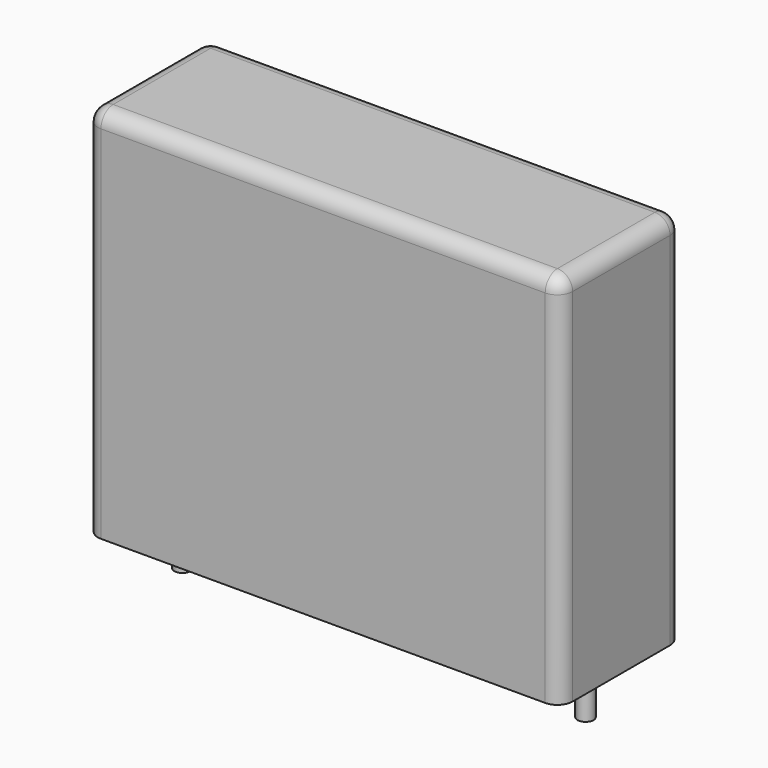
from build123d import *

# Parameters (mm, degrees)
SKETCH_W     = 26.5
SKETCH_H     = 8.5
PAD_DEPTH    = 21
FILLET_R     = 0.85
SKETCH001_R  = 0.45
PAD001_DEPTH = 3.2


with BuildPart() as fillet_body:
    # Sketch → Pad (new body)
    with BuildSketch(Plane.XY.offset(0.1)):
        with Locations((11.25, 0)):
            Rectangle(SKETCH_W, SKETCH_H)
    extrude(amount=PAD_DEPTH)

    # Fillet
    fillet_edges = [fillet_body.edges().sort_by_distance(p)[0] for p in [
        (-2, 0, 21.1),
        (-2, -4.25, 10.6),
        (11.25, -4.25, 21.1),
        (24.5, -4.25, 10.6),
        (24.5, 0, 21.1),
        (24.5, 4.25, 10.6),
        (11.25, 4.25, 21.1),
        (-2, 4.25, 10.6),
    ]]
    fillet(fillet_edges, radius=FILLET_R)


with BuildPart() as pad001:
    # Sketch001 → Pad001 (new body)
    with BuildSketch(Plane.XY.offset(0.5)):
        Circle(SKETCH001_R)
        with Locations((22.5, 0)):
            Circle(SKETCH001_R)
    extrude(amount=-PAD001_DEPTH)


solid = Compound([fillet_body.part, pad001.part])
